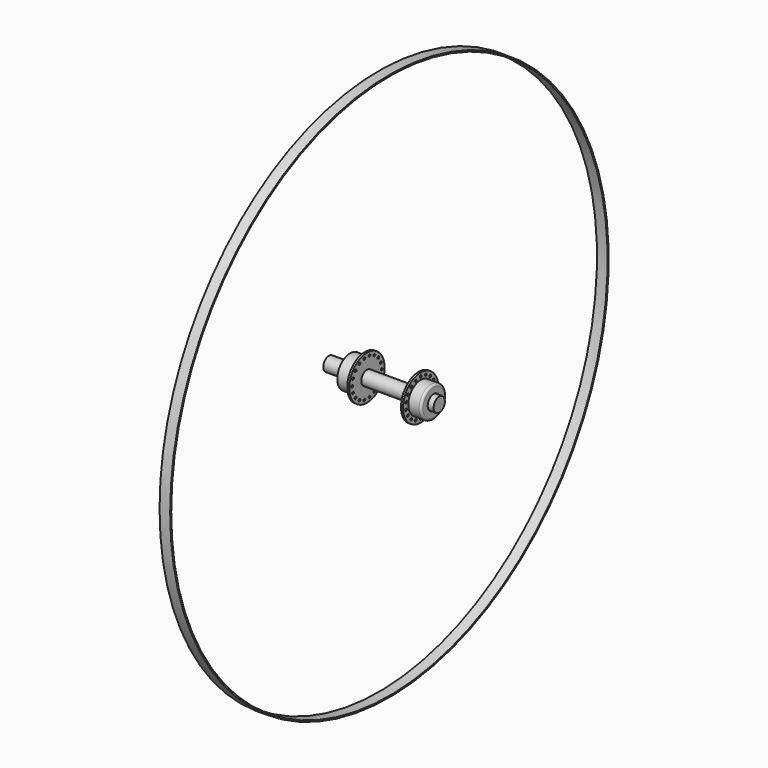
from build123d import *

# Parameters (mm, degrees)
F2_R      = 1.3
F3_DEPTH  = 2.3
F4_R      = 1.3
F5_DEPTH  = 2.3
F6_R      = 2.5
F7_R      = 8.5
F8_DEPTH  = 15
F9_R      = 8.5
F10_DEPTH = 15
F11_R     = 8
F12_DEPTH = 43
F13_R     = 8
F14_DEPTH = 23.3
F16_R     = 310
F16_R_2   = 308.5
F17_DEPTH = 6


with BuildPart() as f1:
    # F0 (on Top) → F1 (revolve)
    with BuildSketch(Plane.XY):
        Polygon((0, 18.2), (0, 0), (94.5, 0), (94.5, 17.6), (79.8, 17.6), (79.8, 25), (77.5, 25), (77.5, 8), (19, 8), (19, 25), (16.7, 25), (16.7, 18.2), align=None)
    revolve(axis=Axis((47.25, 0, 0), (1, 0, 0)))

    # F2 (on face) → F3 (cut, through all)
    with BuildSketch(Plane.YZ.offset(79.8)):
        with Locations((0, 21)):
            Circle(F2_R)
        with Locations((-7.1824230098, 19.7335450365)):
            Circle(F2_R)
        with Locations((-13.4985398034, 16.0869333055)):
            Circle(F2_R)
        with Locations((-18.1865334795, 10.5)):
            Circle(F2_R)
        with Locations((-20.6809628133, 3.646611731)):
            Circle(F2_R)
        with Locations((-20.6809628133, -3.646611731)):
            Circle(F2_R)
        with Locations((-18.1865334795, -10.5)):
            Circle(F2_R)
        with Locations((-13.4985398034, -16.0869333055)):
            Circle(F2_R)
        with Locations((-7.1824230098, -19.7335450365)):
            Circle(F2_R)
        with Locations((0, -21)):
            Circle(F2_R)
        with Locations((7.1824230098, -19.7335450365)):
            Circle(F2_R)
        with Locations((13.4985398034, -16.0869333055)):
            Circle(F2_R)
        with Locations((18.1865334795, -10.5)):
            Circle(F2_R)
        with Locations((20.6809628133, -3.646611731)):
            Circle(F2_R)
        with Locations((20.6809628133, 3.646611731)):
            Circle(F2_R)
        with Locations((18.1865334795, 10.5)):
            Circle(F2_R)
        with Locations((13.4985398034, 16.0869333055)):
            Circle(F2_R)
        with Locations((7.1824230098, 19.7335450365)):
            Circle(F2_R)
    extrude(amount=-F3_DEPTH, mode=Mode.SUBTRACT)

    # F4 (on face) → F5 (cut, through all)
    with BuildSketch(Plane(origin=(16.7, 0, 0), x_dir=(0, -1, 0), z_dir=(-1, 0, 0))):
        with Locations((3.646611731, 20.6809628133)):
            Circle(F4_R)
        with Locations((-3.646611731, 20.6809628133)):
            Circle(F4_R)
        with Locations((-10.5, 18.1865334795)):
            Circle(F4_R)
        with Locations((-16.0869333055, 13.4985398034)):
            Circle(F4_R)
        with Locations((-19.7335450365, 7.1824230098)):
            Circle(F4_R)
        with Locations((-21, 0)):
            Circle(F4_R)
        with Locations((-19.7335450365, -7.1824230098)):
            Circle(F4_R)
        with Locations((-16.0869333055, -13.4985398034)):
            Circle(F4_R)
        with Locations((-10.5, -18.1865334795)):
            Circle(F4_R)
        with Locations((-3.646611731, -20.6809628133)):
            Circle(F4_R)
        with Locations((3.646611731, -20.6809628133)):
            Circle(F4_R)
        with Locations((10.5, -18.1865334795)):
            Circle(F4_R)
        with Locations((16.0869333055, -13.4985398034)):
            Circle(F4_R)
        with Locations((19.7335450365, -7.1824230098)):
            Circle(F4_R)
        with Locations((21, 0)):
            Circle(F4_R)
        with Locations((19.7335450365, 7.1824230098)):
            Circle(F4_R)
        with Locations((16.0869333055, 13.4985398034)):
            Circle(F4_R)
        with Locations((10.5, 18.1865334795)):
            Circle(F4_R)
    extrude(amount=-F5_DEPTH, mode=Mode.SUBTRACT)

    # F6
    f6_edges = [f1.edges().sort_by_distance(p)[0] for p in [
        (94.5, -17.6, 0),
    ]]
    fillet(f6_edges, radius=F6_R)

    # F7 (on face) → F8 (cut)
    with BuildSketch(Plane.YZ.offset(94.5)):
        Circle(F7_R)
    extrude(amount=-F8_DEPTH, mode=Mode.SUBTRACT)

    # F9 (on face) → F10 (cut)
    with BuildSketch(Plane(origin=(0, 0, 0), x_dir=(0, -1, 0), z_dir=(-1, 0, 0))):
        Circle(F9_R)
    extrude(amount=-F10_DEPTH, mode=Mode.SUBTRACT)

    # F11 (on face) → F12 (join)
    with BuildSketch(Plane.YZ.offset(19)):
        Circle(F11_R)
    extrude(amount=-F12_DEPTH)

    # F13 (on face) → F14 (join)
    with BuildSketch(Plane(origin=(77.5, 0, 0), x_dir=(0, -1, 0), z_dir=(-1, 0, 0))):
        Circle(F13_R)
    extrude(amount=-F14_DEPTH)


with BuildPart() as f17:
    # F16 (on offset) → F17 (new body, symmetric)
    with BuildSketch(Plane(origin=(38.4, 0, 0), x_dir=(0, -1, 0), z_dir=(-1, 0, 0))):
        Circle(F16_R)
        Circle(F16_R_2, mode=Mode.SUBTRACT)
    extrude(amount=F17_DEPTH, both=True)


solid = Compound([f1.part, f17.part])
